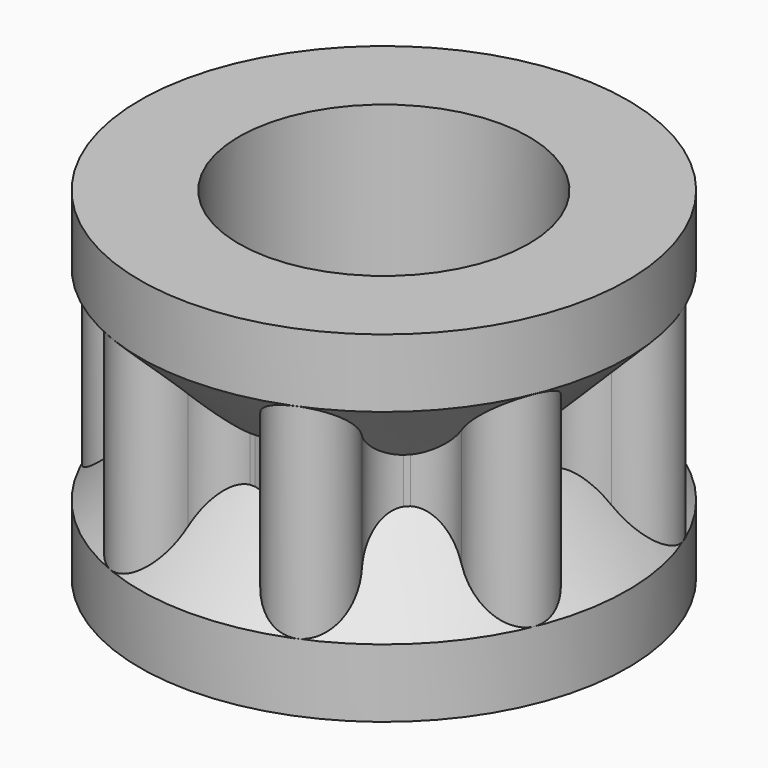
from build123d import *

# Parameters (mm, degrees)
SKETCH003_R      = 5.1
EXTRUDE004_DEPTH = 6


with BuildPart() as revolve_body:
    # Sketch008 → Revolve (revolve)
    with BuildSketch(Plane.YZ):
        Polygon((-8.58, 6), (-8.58, 3.6), (-5.78, 0.8), (-5.78, -0.8), (-8.58, -3.6), (-8.58, -6), (-5.5, -6), (-5.5, 6), align=None)
    revolve(axis=Axis((0, 0, 0), (0, 0, 1)))


with BuildPart() as idlergear_printable:
    # Sketch003 → Extrude004 (new body, symmetric)
    with BuildSketch(Plane.XY):
        with BuildLine():
            ThreePointArc((1.373099, -6.903037), (0, -5.776163), (-1.373099, -6.903037))
            ThreePointArc((-3.910251, -5.852105), (-3.28196, -7.92334), (-1.373099, -6.903037))
            ThreePointArc((-3.910251, -5.852105), (-4.084365, -4.084363), (-5.852107, -3.910253))
            ThreePointArc((-6.903031, -1.373098), (-7.923342, -3.281956), (-5.852107, -3.910253))
            ThreePointArc((-6.903031, -1.373098), (-5.776163, 0), (-6.903031, 1.373098))
            ThreePointArc((-5.852107, 3.910253), (-7.923342, 3.281956), (-6.903031, 1.373098))
            ThreePointArc((-5.852107, 3.910253), (-4.084363, 4.084365), (-3.910255, 5.85211))
            ThreePointArc((-1.373099, 6.903037), (-3.281957, 7.923341), (-3.910255, 5.85211))
            ThreePointArc((-1.373099, 6.903037), (0, 5.776163), (1.373099, 6.903037))
            ThreePointArc((3.910255, 5.85211), (3.281957, 7.923341), (1.373099, 6.903037))
            ThreePointArc((3.910255, 5.85211), (4.084362, 4.084366), (5.852105, 3.910251))
            ThreePointArc((6.903037, 1.373099), (7.92334, 3.28196), (5.852105, 3.910251))
            ThreePointArc((6.903037, 1.373099), (5.776163, 0), (6.903037, -1.373099))
            ThreePointArc((5.852112, -3.910256), (7.923342, -3.281956), (6.903037, -1.373099))
            ThreePointArc((5.852112, -3.910256), (4.084364, -4.084364), (3.910256, -5.852112))
            ThreePointArc((1.373099, -6.903037), (3.281956, -7.923342), (3.910256, -5.852112))
        make_face()
        Circle(SKETCH003_R, mode=Mode.SUBTRACT)
    extrude(amount=EXTRUDE004_DEPTH, both=True)

    # Fusion004: union Revolve body
    add(revolve_body.part)


with BuildPart() as idlergear_printable_1:
    # Fusion004 placement: moved
    add(idlergear_printable.part.moved(Location((-33.693581, 0, 0))))


with BuildPart() as idlergear_printable_2:
    # Clone010 placement: moved
    add(idlergear_printable_1.part.moved(Location((70, 41, 0))))


solid = idlergear_printable_2.part
